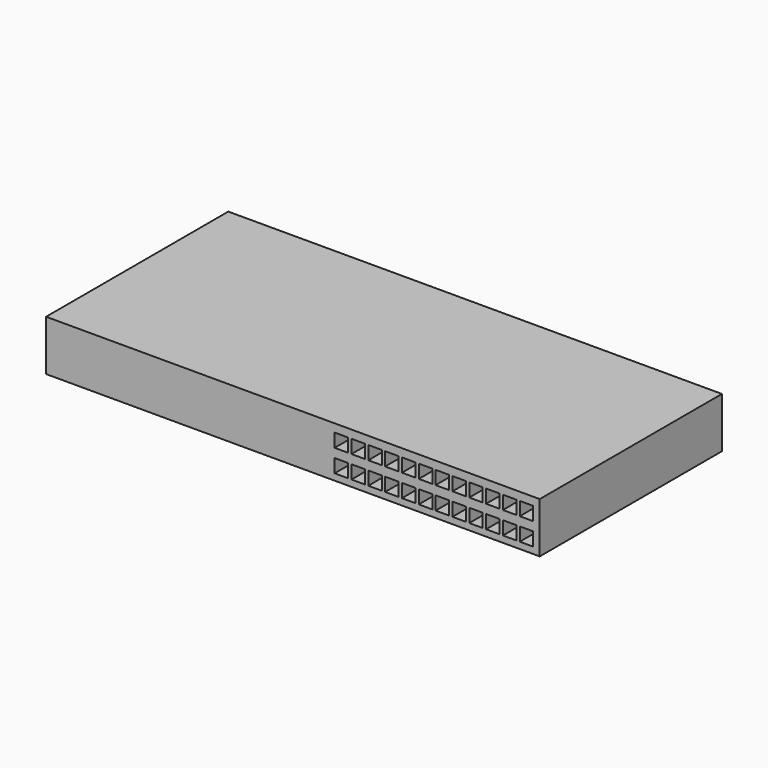
from build123d import *

# Parameters (mm, degrees)
F0_W     = 440
F0_H     = 45
F1_DEPTH = 203
F2_W     = 12
F2_H     = 12
F3_DEPTH = 15


with BuildPart() as f1:
    # F0 (on Front) → F1 (new body)
    with BuildSketch(Plane.XZ):
        with Locations((220, 22.5)):
            Rectangle(F0_W, F0_H)
    extrude(amount=F1_DEPTH)

    # F2 (on face) → F3 (cut)
    with BuildSketch(Plane.XZ.offset(203)):
        with Locations((428.20741, 31.776955)):
            Rectangle(F2_W, F2_H)
        with Locations((413.20741, 31.776955)):
            Rectangle(F2_W, F2_H)
        with Locations((383.20741, 31.776955)):
            Rectangle(F2_W, F2_H)
        with Locations((398.20741, 31.776955)):
            Rectangle(F2_W, F2_H)
        with Locations((368.20741, 31.776955)):
            Rectangle(F2_W, F2_H)
        with Locations((353.20741, 31.776955)):
            Rectangle(F2_W, F2_H)
        with Locations((338.20741, 31.776955)):
            Rectangle(F2_W, F2_H)
        with Locations((323.20741, 31.776955)):
            Rectangle(F2_W, F2_H)
        with Locations((308.20741, 31.776955)):
            Rectangle(F2_W, F2_H)
        with Locations((293.20741, 31.776955)):
            Rectangle(F2_W, F2_H)
        with Locations((278.20741, 31.776955)):
            Rectangle(F2_W, F2_H)
        with Locations((263.20741, 31.776955)):
            Rectangle(F2_W, F2_H)
        with Locations((428.20741, 11.776955)):
            Rectangle(F2_W, F2_H)
        with Locations((413.20741, 11.776955)):
            Rectangle(F2_W, F2_H)
        with Locations((263.20741, 11.776955)):
            Rectangle(F2_W, F2_H)
        with Locations((278.20741, 11.776955)):
            Rectangle(F2_W, F2_H)
        with Locations((293.20741, 11.776955)):
            Rectangle(F2_W, F2_H)
        with Locations((308.20741, 11.776955)):
            Rectangle(F2_W, F2_H)
        with Locations((323.20741, 11.776955)):
            Rectangle(F2_W, F2_H)
        with Locations((338.20741, 11.776955)):
            Rectangle(F2_W, F2_H)
        with Locations((353.20741, 11.776955)):
            Rectangle(F2_W, F2_H)
        with Locations((368.20741, 11.776955)):
            Rectangle(F2_W, F2_H)
        with Locations((383.20741, 11.776955)):
            Rectangle(F2_W, F2_H)
        with Locations((398.20741, 11.776955)):
            Rectangle(F2_W, F2_H)
    extrude(amount=-F3_DEPTH, mode=Mode.SUBTRACT)


solid = f1.part
